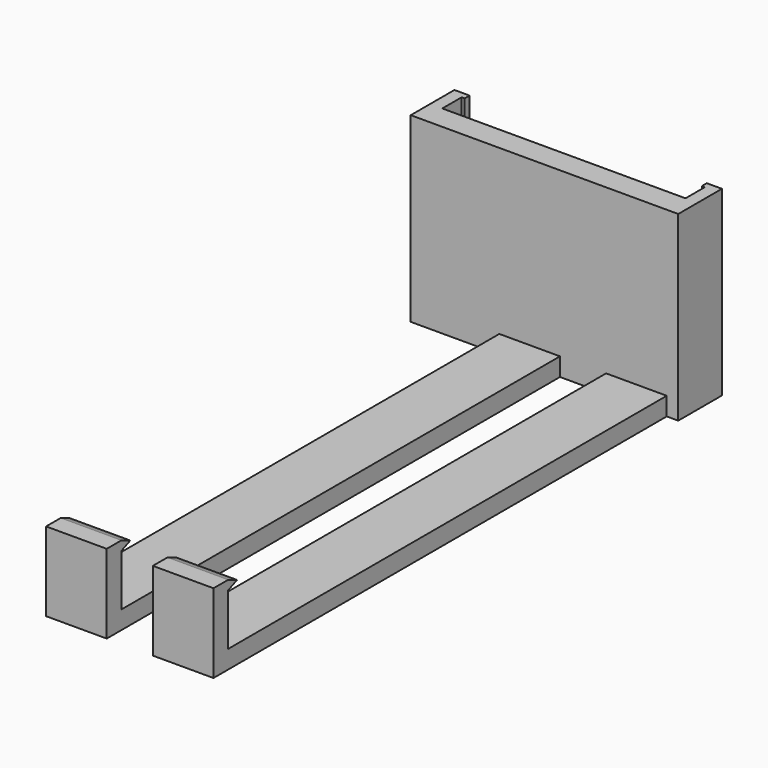
from build123d import *

# Parameters (mm, degrees)
PAD_DEPTH    = 30
PAD001_DEPTH = 10
PAD002_DEPTH = 10


with BuildPart() as part:
    # Sketch → Pad (new body)
    with BuildSketch(Plane.XY):
        Polygon((-4.997332, 9), (-2.497332, 9), (-2.497332, 8), (-2.997332, 8), (-2.997332, 4), (37.102668, 4), (37.102668, 8), (36.602668, 8), (36.602668, 9), (39.102668, 9), (39.102668, 0), (-4.997332, 0), (-4.997332, 4), align=None)
    extrude(amount=PAD_DEPTH)

    # Sketch001 (on Face10 of Pad) → Pad001 (join)
    with BuildSketch(Plane.YZ.offset(9.602668)):
        Polygon((0.1, 0), (0.1, 3), (-90.4, 3), (-90.4, 11.5), (-88.552241, 12.265367), (-90.4, 13.030734), (-93.4, 13.030734), (-93.4, 0), align=None)
    extrude(amount=PAD001_DEPTH)

    # Sketch002 (on Face10 of Pad) → Pad002 (join)
    with BuildSketch(Plane.YZ.offset(27.202668)):
        Polygon((0.1, 0), (0.1, 3), (-90.4, 3), (-90.4, 11.5), (-88.552241, 12.265367), (-90.4, 13.030734), (-93.4, 13.030734), (-93.4, 0), align=None)
    extrude(amount=PAD002_DEPTH)


solid = part.part
